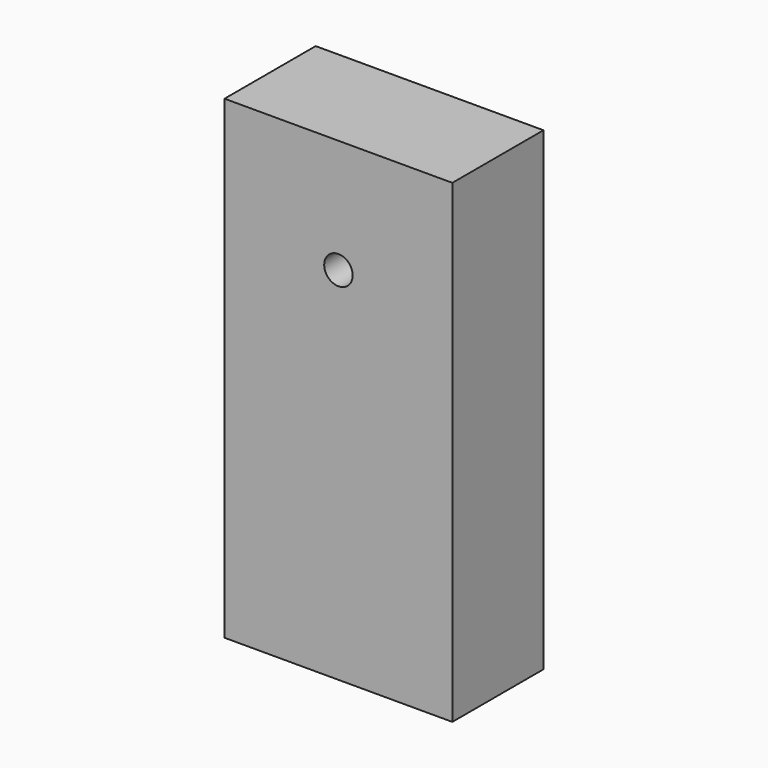
from build123d import *

# Parameters (mm, degrees)
SKETCH071_W             = 48
SKETCH071_H             = 24
PAD039_DEPTH            = 100
SKETCH069_R             = 3
POCKET031_DEPTH         = 24
SKETCH070_R             = 3
POCKET030_DEPTH         = 24.001
BODY045_PLACEMENT_ANGLE = 180


with BuildPart() as part:
    # Sketch071 → Pad039 (new body)
    with BuildSketch(Plane.XY):
        with Locations((24, 12)):
            Rectangle(SKETCH071_W, SKETCH071_H)
    extrude(amount=PAD039_DEPTH)

    # Sketch069 (on Face2 of Pad039) → Pocket031 (cut)
    with BuildSketch(Plane.YZ.offset(48)):
        with Locations((12, 24)):
            Circle(SKETCH069_R)
    extrude(amount=-POCKET031_DEPTH, mode=Mode.SUBTRACT)

    # Sketch070 (on Face1 of Pocket031) → Pocket030 (cut, through all)
    with BuildSketch(Plane.XZ):
        with Locations((24, 76)):
            Circle(SKETCH070_R)
    extrude(amount=-POCKET030_DEPTH, mode=Mode.SUBTRACT)


with BuildPart() as part_1:
    # Body045 placement: moved
    add(part.part.moved(Location((-452, 24, 26))).rotate(Axis((-452, 24, 26), (0, 0, 1)), BODY045_PLACEMENT_ANGLE))


solid = part_1.part
